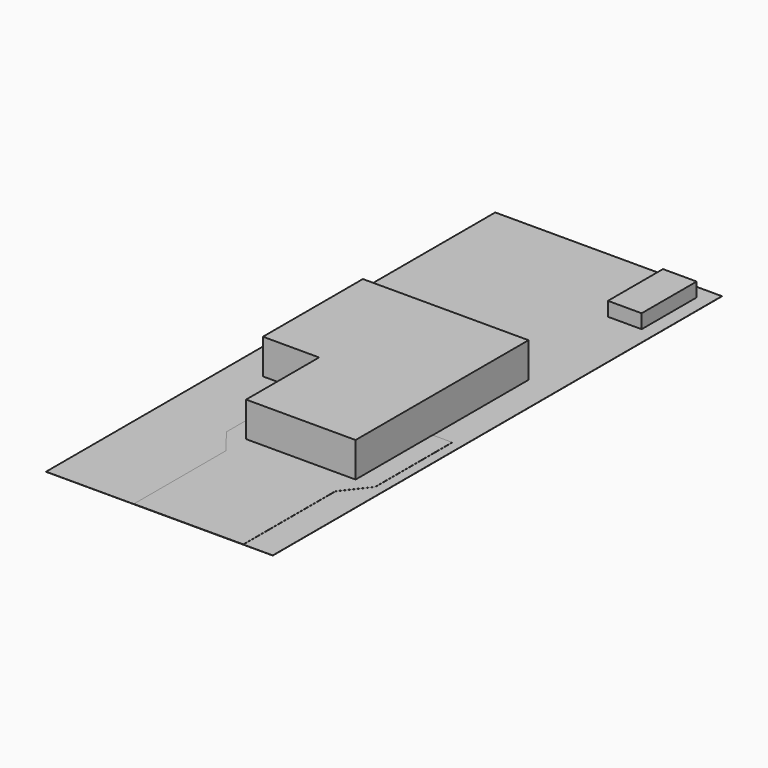
from build123d import *

# Parameters (mm, degrees)
F3_DEPTH = 63.5
F2_W     = 35.56
F2_H     = 165.1
F4_DEPTH = 0.508
F0_W     = 410.21
F0_H     = 1016
F5_DEPTH = 0.254
F6_W     = 60.96
F6_H     = 124.46
F7_DEPTH = 25.4


with BuildPart() as f3:
    # F2 (on face) → F3 (new body)
    with BuildSketch(Plane.XY):
        Polygon((151.765, -79.796955), (151.765, 137.16), (-147.955, 137.16), (-147.955, -88.9), (-81.915, -88.9), (-46.355, -88.9), (-46.355, -254), (151.765, -254), align=None)
    extrude(amount=F3_DEPTH)


with BuildPart() as f4:
    # F2 (on face) → F4 (new body)
    with BuildSketch(Plane.XY):
        with Locations((-64.135, -171.45)):
            Rectangle(F2_W, F2_H)
        Polygon((-46.355, -299.72), (-46.355, -254), (-81.915, -254), align=None)
        Polygon((151.765, -299.72), (151.765, -254), (-46.355, -254), (-46.355, -299.72), (-46.355, -508), (151.765, -508), align=None)
        Polygon((187.325, -79.796955), (151.765, -79.796955), (151.765, -254), (151.765, -299.72), (187.325, -254), align=None)
    extrude(amount=F4_DEPTH)


with BuildPart() as f5:
    # F0 (on Top) → F5 (new body)
    with BuildSketch(Plane.XY):
        Rectangle(F0_W, F0_H)
    extrude(amount=F5_DEPTH)


with BuildPart() as f7:
    # F6 (on face) → F7 (new body)
    with BuildSketch(Plane.XY.offset(0.254)):
        with Locations((149.225, 420.37)):
            Rectangle(F6_W, F6_H)
    extrude(amount=F7_DEPTH)


solid = Compound([f3.part, f4.part, f5.part, f7.part])
